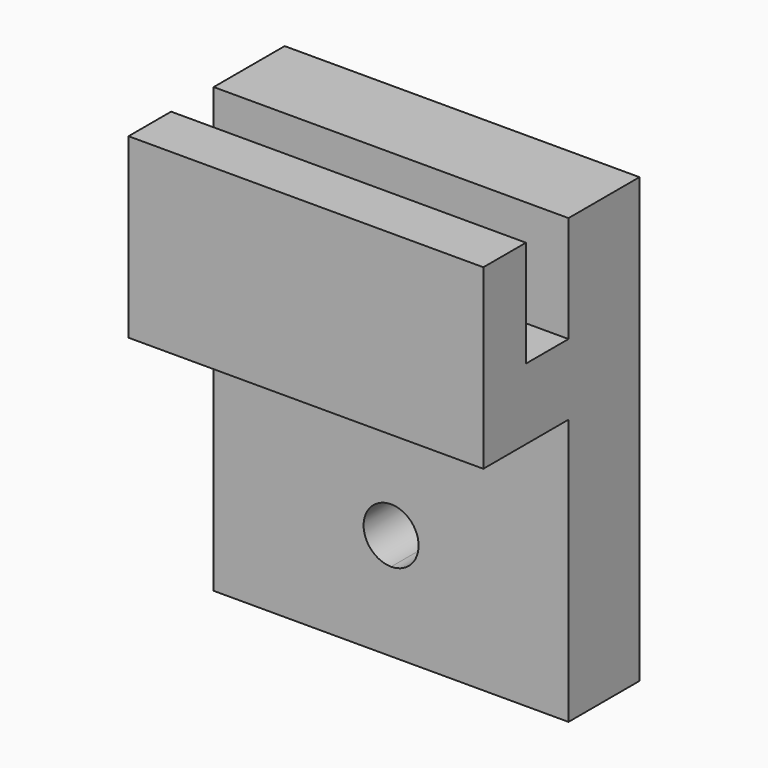
from build123d import *

# Parameters (mm, degrees)
F0_W     = 20
F0_H     = 25
F1_DEPTH = 5
F2_W     = 20
F2_H     = 4
F3_DEPTH = 3
F4_W     = 20
F4_H     = 4
F4_H_2   = 6
F5_DEPTH = 3
F7_DEPTH = 25


with BuildPart() as f1:
    # F0 (on Front) → F1 (new body)
    with BuildSketch(Plane.XZ):
        Rectangle(F0_W, F0_H)
    extrude(amount=F1_DEPTH)

    # F2 (on face) → F3 (join)
    with BuildSketch(Plane.XZ.offset(5)):
        with Locations((0, 4.5)):
            Rectangle(F2_W, F2_H)
    extrude(amount=F3_DEPTH)

    # F4 (on face) → F5 (join)
    with BuildSketch(Plane.XZ.offset(8)):
        with Locations((0, 4.5)):
            Rectangle(F4_W, F4_H)
        with Locations((0, 9.5)):
            Rectangle(F4_W, F4_H_2)
    extrude(amount=F5_DEPTH)

    # F6 (on face) → F7 (cut)
    with BuildSketch(Plane.XZ.offset(5)):
        with BuildLine():
            ThreePointArc((1.55, -6.5), (-1.096016, -5.403984), (0, -8.05))
            ThreePointArc((0, -8.05), (1.096016, -7.596016), (1.55, -6.5))
        make_face()
    extrude(amount=-F7_DEPTH, mode=Mode.SUBTRACT)


solid = f1.part
